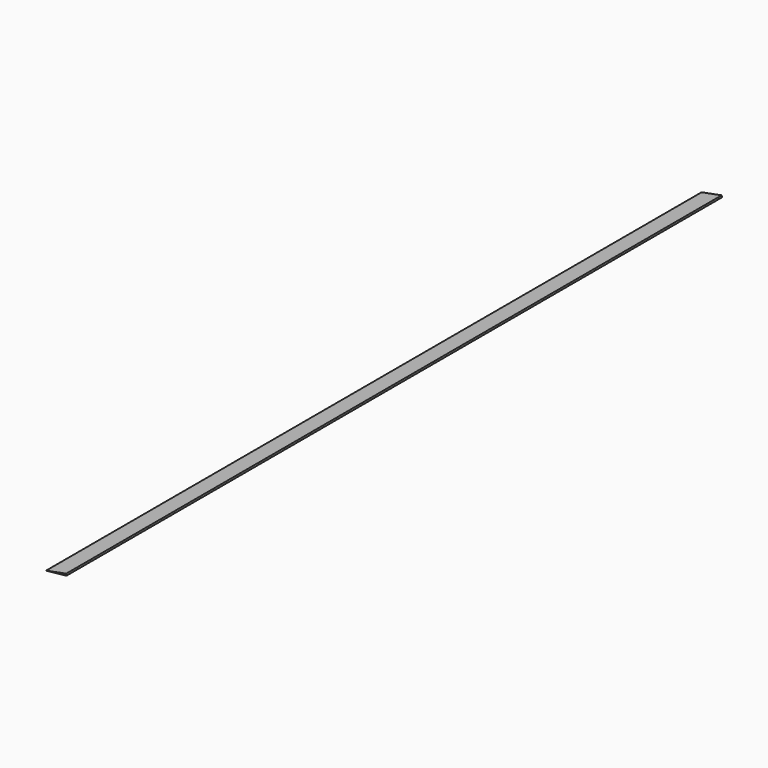
from build123d import *

# Parameters (mm, degrees)
F1_DEPTH = 5500


with BuildPart() as f1:
    # F0 (on Front) → F1 (new body, symmetric)
    with BuildSketch(Plane.XZ):
        with BuildLine():
            Line((0, 0), (273.559378, 28.111684))
            ThreePointArc((273.559378, 28.111684), (272.072796, 40.01742), (270.068307, 51.846981))
            Line((270.068307, 51.846981), (0, 0))
        make_face()
    extrude(amount=F1_DEPTH, both=True)


solid = f1.part
